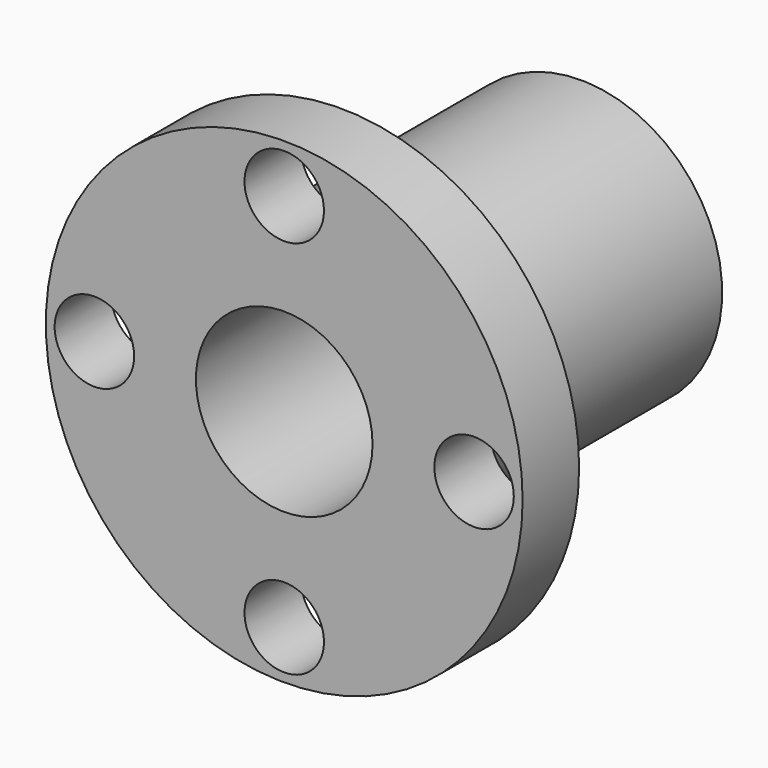
from build123d import *

# Parameters (mm, degrees)
F0_R     = 27
F1_DEPTH = 8
F2_R     = 16
F3_DEPTH = 34
F4_R     = 10
F4_R_2   = 4.5
F5_DEPTH = 50


with BuildPart() as f1:
    # F0 (on Front) → F1 (new body)
    with BuildSketch(Plane.XZ):
        Circle(F0_R)
    extrude(amount=F1_DEPTH)

    # F2 (on face) → F3 (join)
    with BuildSketch(Plane(origin=(0, 0, 0), x_dir=(-1, 0, 0), z_dir=(0, 1, 0))):
        Circle(F2_R)
    extrude(amount=F3_DEPTH)

    # F4 (on face) → F5 (cut)
    with BuildSketch(Plane.XZ.offset(8)):
        Circle(F4_R)
        with Locations((0, 21.5)):
            Circle(F4_R_2)
        with Locations((-21.5, 0)):
            Circle(F4_R_2)
        with Locations((0, -21.5)):
            Circle(F4_R_2)
        with Locations((21.5, 0)):
            Circle(F4_R_2)
    extrude(amount=-F5_DEPTH, mode=Mode.SUBTRACT)


solid = f1.part
